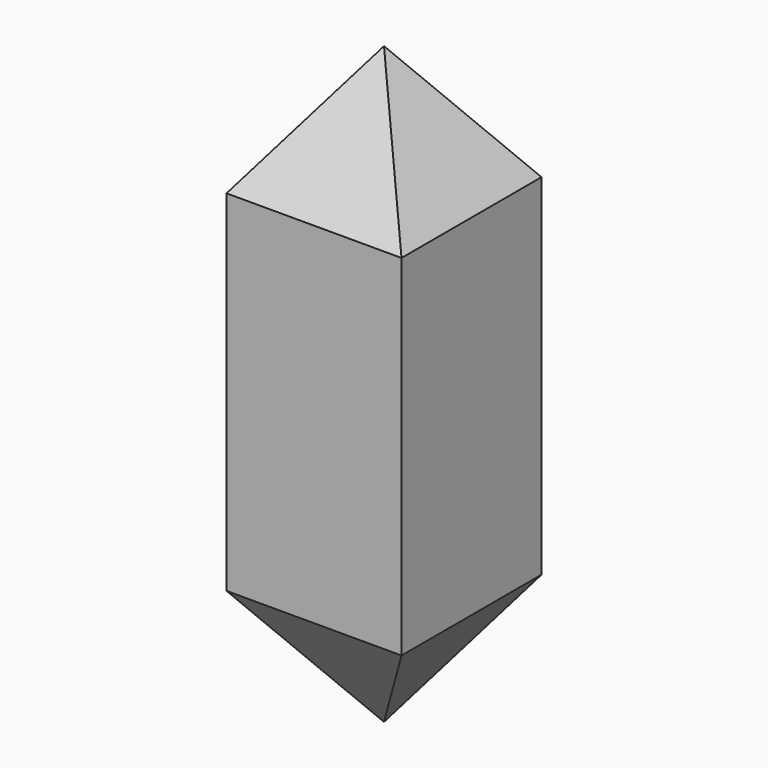
from build123d import *

# Parameters (mm, degrees)
F0_W     = 50.8
F0_H     = 101.6
F1_DEPTH = 50.8
F3_DEPTH = 50.8
F5_DEPTH = 50.8


with BuildPart() as f1:
    # F0 (on Right) → F1 (new body)
    with BuildSketch(Plane.YZ):
        Polygon((0, 86.36), (-25.4, 50.8), (25.4, 50.8), align=None)
        Rectangle(F0_W, F0_H)
        Polygon((25.4, -50.8), (-25.4, -50.8), (0, -86.36), align=None)
    extrude(amount=F1_DEPTH)

    # F2 (on face) → F3 (cut)
    with BuildSketch(Plane(origin=(0, 25.4, 0), x_dir=(-1, 0, 0), z_dir=(0, 1, 0))):
        Polygon((-50.8, 86.36), (-50.8, 50.8), (-25.4, 86.36), align=None)
        Polygon((-25.4, 86.36), (0, 50.8), (0, 86.36), align=None)
    extrude(amount=-F3_DEPTH, mode=Mode.SUBTRACT)

    # F4 (on face) → F5 (cut)
    with BuildSketch(Plane(origin=(0, 25.4, 0), x_dir=(-1, 0, 0), z_dir=(0, 1, 0))):
        Polygon((0, -86.36), (0, -50.8), (-25.4, -86.36), align=None)
        Polygon((-25.4, -86.36), (-50.8, -50.8), (-50.8, -86.36), align=None)
    extrude(amount=-F5_DEPTH, mode=Mode.SUBTRACT)


solid = f1.part
